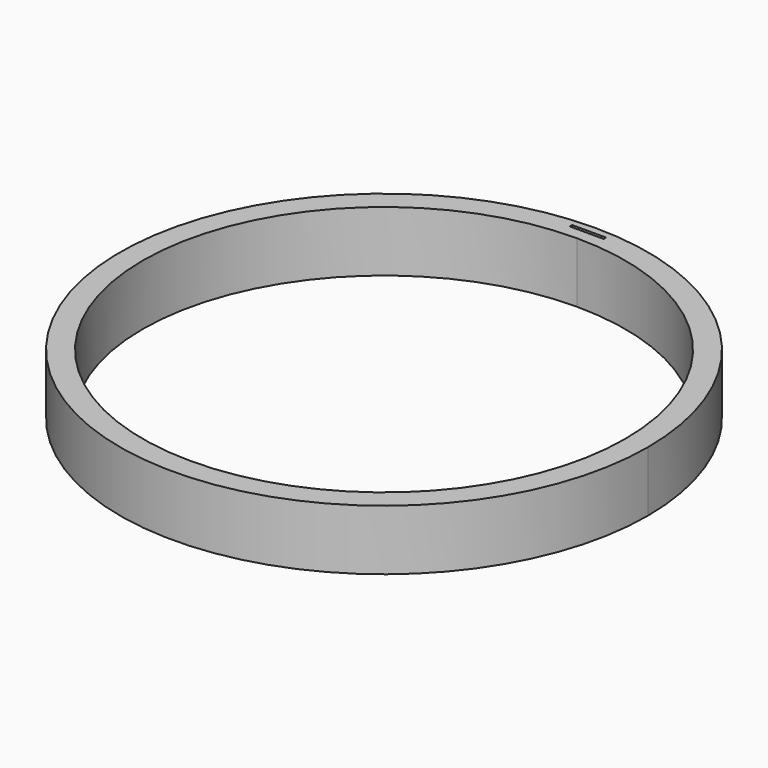
from build123d import *

# Parameters (mm, degrees)
F1_DEPTH = 12.7


with BuildPart() as f1:
    # F0 (on Top) → F1 (new body)
    with BuildSketch(Plane.XY):
        with BuildLine():
            ThreePointArc((55.5625, 0), (39.288621, 39.288621), (0, 55.5625))
            ThreePointArc((0, 55.5625), (-39.288621, -39.288621), (55.5625, 0))
        make_face()
        with BuildLine():
            ThreePointArc((0, 50.8), (35.921024, 35.921024), (50.8, 0))
            ThreePointArc((50.8, 0), (-35.921024, -35.921024), (0, 50.8))
        make_face(mode=Mode.SUBTRACT)
        Polygon((3.556, 53.34), (0, 53.34), (-3.556, 53.34), (-3.556, 53.975), (0, 53.975), (3.556, 53.975), align=None, mode=Mode.SUBTRACT)
    extrude(amount=F1_DEPTH)


solid = f1.part
